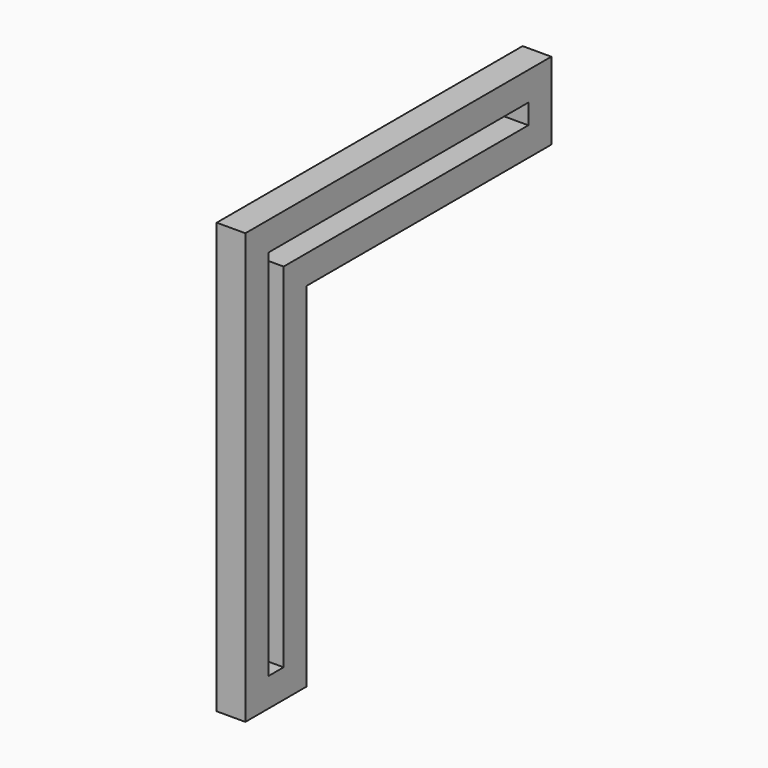
from build123d import *

# Parameters (mm, degrees)
F1_DEPTH = 7.62


with BuildPart() as f1:
    # F0 (on Right) → F1 (new body)
    with BuildSketch(Plane.YZ):
        Polygon((0, 0), (0, -114.3), (20.32, -114.3), (20.32, -20.574), (101.6, -20.574), (101.6, 0), (20.32, 0), align=None)
        Polygon((12.7, -106.68), (7.62, -106.68), (7.62, -7.62), (93.98, -7.62), (93.98, -12.954), (12.7, -12.954), align=None, mode=Mode.SUBTRACT)
    extrude(amount=F1_DEPTH)


solid = f1.part
